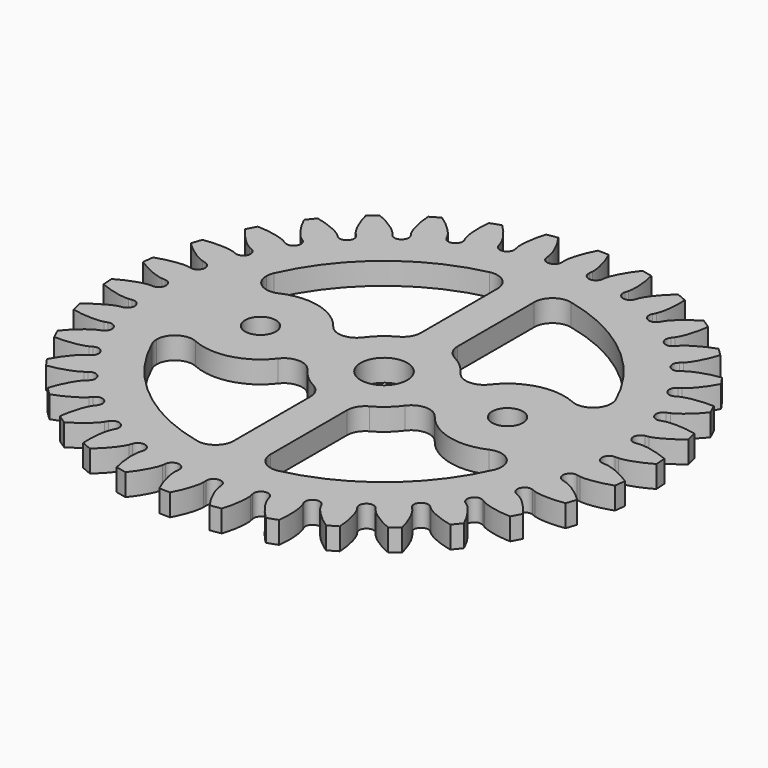
from build123d import *

# Parameters (mm, degrees)
F5_DEPTH       = 6
F7_DEPTH       = 6
F4_R           = 36
F8_DEPTH       = 3
F9_COUNT       = 34
F12_DEPTH      = 25
F13_DEPTH      = 5
F14_COUNT      = 4
F15_R          = 7.75
F16_DEPTH      = 3
F16_DEPTH_BACK = 2
F17_R          = 2.1
F18_DEPTH      = 3
F18_DEPTH_BACK = 2
F19_COUNT      = 2
F22_DEPTH      = 5
F26_R          = 2.5
F26_2_R        = 2.5
F26_3_R        = 2.5
F26_4_R        = 2.5


with BuildPart() as f5:
    # F3 (on Top) → F5 (new body)
    with BuildSketch(Plane.XY):
        with BuildLine():
            ThreePointArc((35.8090256668, -3.7031987247), (35.9522247156, -1.8540598689), (36, 0))
            ThreePointArc((36, 0), (35.9926208745, 0.7288638979), (35.9704865232, 1.457428997))
            add(Edge.make_bspline(
                [(31.9495491067, 0), (31.9970012111, 0.0017255586), (31.9738138828, 5.04126e-05), (32.1620401358, 0.0136486354), (32.3775345426, 0.0450753445), (32.710489313, 0.1083121345), (33.1238742455, 0.2125592928), (33.619815711, 0.3647628469), (34.2154709612, 0.5882773511), (34.8000075318, 0.833318637), (35.7329118544, 1.3133483205), (35.6079145642, 1.2490304604), (35.9704865232, 1.457428997)],
                knots=[0, 0, 0, 0, 0.0334555048, 0.0914010754, 0.1662083757, 0.2547215312, 0.3550859991, 0.4660430838, 0.5866661461, 0.7162360958, 0.8541738379, 0.9697759059, 0.9697759059, 0.9697759059, 0.9697759059], degree=3))
            Line((31.9495491067, 0), (31.5, 0))
            ThreePointArc((31.5, 0), (31.4845939501, -0.9850603024), (31.4383908699, -1.9691570563))
            Line((31.4383908699, -1.9691570563), (31.8870607281, -1.9972596847))
            add(Edge.make_bspline(
                [(31.8870607281, -1.9972596847), (31.9343121537, -2.0019482381), (31.9112748946, -1.9988268608), (32.0982829414, -2.0241650607), (32.3113912991, -2.0690014892), (32.6397417449, -2.1529285735), (33.0458013659, -2.2828137407), (33.5312581576, -2.4657223585), (34.1117758533, -2.7260358534), (34.6798509139, -3.0071389657), (35.5809225614, -3.5445483609), (35.460190444, -3.4725423507), (35.8090256668, -3.7031987247)],
                knots=[0, 0, 0, 0, 0.0334555048, 0.0914010754, 0.1662083757, 0.2547215312, 0.3550859991, 0.4660430838, 0.5866661461, 0.7162360958, 0.8541738379, 0.9697759059, 0.9697759059, 0.9697759059, 0.9697759059], degree=3))
        make_face()
    extrude(amount=F5_DEPTH)

    # F6 (on face) → F7 (join)
    with BuildSketch(Plane(origin=(0, 0, 0), x_dir=(1, 0, 0), z_dir=(0, 0, -1))):
        with BuildLine():
            ThreePointArc((31.5, 0), (31.4845939501, 0.9850603024), (31.4383908699, 1.9691570563))
            ThreePointArc((31.4383908699, 1.9691570563), (30.4998950152, 0.9542519701), (31.5, 0))
        make_face()
    extrude(amount=-F7_DEPTH)


with BuildPart() as f8:
    # F4 (on Top) → F8 (new body)
    with BuildSketch(Plane.XY):
        Circle(F4_R)
    extrude(amount=F8_DEPTH)


with BuildPart() as f9_1:
    # F9: instance of F5
    add(f5.part.rotate(Axis((0, 0, 3), (0, 0, 1)), 1 * 360 / F9_COUNT))


with BuildPart() as f9_2:
    # F9: instance of F5
    add(f5.part.rotate(Axis((0, 0, 3), (0, 0, 1)), 2 * 360 / F9_COUNT))


with BuildPart() as f9_3:
    # F9: instance of F5
    add(f5.part.rotate(Axis((0, 0, 3), (0, 0, 1)), 3 * 360 / F9_COUNT))


with BuildPart() as f9_4:
    # F9: instance of F5
    add(f5.part.rotate(Axis((0, 0, 3), (0, 0, 1)), 4 * 360 / F9_COUNT))


with BuildPart() as f9_5:
    # F9: instance of F5
    add(f5.part.rotate(Axis((0, 0, 3), (0, 0, 1)), 5 * 360 / F9_COUNT))


with BuildPart() as f9_6:
    # F9: instance of F5
    add(f5.part.rotate(Axis((0, 0, 3), (0, 0, 1)), 6 * 360 / F9_COUNT))


with BuildPart() as f9_7:
    # F9: instance of F5
    add(f5.part.rotate(Axis((0, 0, 3), (0, 0, 1)), 7 * 360 / F9_COUNT))


with BuildPart() as f9_8:
    # F9: instance of F5
    add(f5.part.rotate(Axis((0, 0, 3), (0, 0, 1)), 8 * 360 / F9_COUNT))


with BuildPart() as f9_9:
    # F9: instance of F5
    add(f5.part.rotate(Axis((0, 0, 3), (0, 0, 1)), 9 * 360 / F9_COUNT))


with BuildPart() as f9_10:
    # F9: instance of F5
    add(f5.part.rotate(Axis((0, 0, 3), (0, 0, 1)), 10 * 360 / F9_COUNT))


with BuildPart() as f9_11:
    # F9: instance of F5
    add(f5.part.rotate(Axis((0, 0, 3), (0, 0, 1)), 11 * 360 / F9_COUNT))


with BuildPart() as f9_12:
    # F9: instance of F5
    add(f5.part.rotate(Axis((0, 0, 3), (0, 0, 1)), 12 * 360 / F9_COUNT))


with BuildPart() as f9_13:
    # F9: instance of F5
    add(f5.part.rotate(Axis((0, 0, 3), (0, 0, 1)), 13 * 360 / F9_COUNT))


with BuildPart() as f9_14:
    # F9: instance of F5
    add(f5.part.rotate(Axis((0, 0, 3), (0, 0, 1)), 14 * 360 / F9_COUNT))


with BuildPart() as f9_15:
    # F9: instance of F5
    add(f5.part.rotate(Axis((0, 0, 3), (0, 0, 1)), 15 * 360 / F9_COUNT))


with BuildPart() as f9_16:
    # F9: instance of F5
    add(f5.part.rotate(Axis((0, 0, 3), (0, 0, 1)), 16 * 360 / F9_COUNT))


with BuildPart() as f9_17:
    # F9: instance of F5
    add(f5.part.rotate(Axis((0, 0, 3), (0, 0, 1)), 17 * 360 / F9_COUNT))


with BuildPart() as f9_18:
    # F9: instance of F5
    add(f5.part.rotate(Axis((0, 0, 3), (0, 0, 1)), 18 * 360 / F9_COUNT))


with BuildPart() as f9_19:
    # F9: instance of F5
    add(f5.part.rotate(Axis((0, 0, 3), (0, 0, 1)), 19 * 360 / F9_COUNT))


with BuildPart() as f9_20:
    # F9: instance of F5
    add(f5.part.rotate(Axis((0, 0, 3), (0, 0, 1)), 20 * 360 / F9_COUNT))


with BuildPart() as f9_21:
    # F9: instance of F5
    add(f5.part.rotate(Axis((0, 0, 3), (0, 0, 1)), 21 * 360 / F9_COUNT))


with BuildPart() as f9_22:
    # F9: instance of F5
    add(f5.part.rotate(Axis((0, 0, 3), (0, 0, 1)), 22 * 360 / F9_COUNT))


with BuildPart() as f9_23:
    # F9: instance of F5
    add(f5.part.rotate(Axis((0, 0, 3), (0, 0, 1)), 23 * 360 / F9_COUNT))


with BuildPart() as f9_24:
    # F9: instance of F5
    add(f5.part.rotate(Axis((0, 0, 3), (0, 0, 1)), 24 * 360 / F9_COUNT))


with BuildPart() as f9_25:
    # F9: instance of F5
    add(f5.part.rotate(Axis((0, 0, 3), (0, 0, 1)), 25 * 360 / F9_COUNT))


with BuildPart() as f9_26:
    # F9: instance of F5
    add(f5.part.rotate(Axis((0, 0, 3), (0, 0, 1)), 26 * 360 / F9_COUNT))


with BuildPart() as f9_27:
    # F9: instance of F5
    add(f5.part.rotate(Axis((0, 0, 3), (0, 0, 1)), 27 * 360 / F9_COUNT))


with BuildPart() as f9_28:
    # F9: instance of F5
    add(f5.part.rotate(Axis((0, 0, 3), (0, 0, 1)), 28 * 360 / F9_COUNT))


with BuildPart() as f9_29:
    # F9: instance of F5
    add(f5.part.rotate(Axis((0, 0, 3), (0, 0, 1)), 29 * 360 / F9_COUNT))


with BuildPart() as f9_30:
    # F9: instance of F5
    add(f5.part.rotate(Axis((0, 0, 3), (0, 0, 1)), 30 * 360 / F9_COUNT))


with BuildPart() as f9_31:
    # F9: instance of F5
    add(f5.part.rotate(Axis((0, 0, 3), (0, 0, 1)), 31 * 360 / F9_COUNT))


with BuildPart() as f9_32:
    # F9: instance of F5
    add(f5.part.rotate(Axis((0, 0, 3), (0, 0, 1)), 32 * 360 / F9_COUNT))


with BuildPart() as f9_33:
    # F9: instance of F5
    add(f5.part.rotate(Axis((0, 0, 3), (0, 0, 1)), 33 * 360 / F9_COUNT))


with BuildPart() as f8_1:
    add(f8.part)

    # F10: cut F9_5, F9_6, F9_7, F9_8, F9_9, F9_10, F9_11, F9_12, F9_13, F9_14, F9_15, F9_16, F9_17, F9_18, F9_19, F9_20, F9_21, F9_22, F9_23, F9_24, F9_25, F9_26, F9_27, F9_28, F9_29, F5, F9_1, F9_2, F9_3, F9_4, F9_30, F9_31, F9_32, F9_33
    add(f9_5.part, mode=Mode.SUBTRACT)
    add(f9_6.part, mode=Mode.SUBTRACT)
    add(f9_7.part, mode=Mode.SUBTRACT)
    add(f9_8.part, mode=Mode.SUBTRACT)
    add(f9_9.part, mode=Mode.SUBTRACT)
    add(f9_10.part, mode=Mode.SUBTRACT)
    add(f9_11.part, mode=Mode.SUBTRACT)
    add(f9_12.part, mode=Mode.SUBTRACT)
    add(f9_13.part, mode=Mode.SUBTRACT)
    add(f9_14.part, mode=Mode.SUBTRACT)
    add(f9_15.part, mode=Mode.SUBTRACT)
    add(f9_16.part, mode=Mode.SUBTRACT)
    add(f9_17.part, mode=Mode.SUBTRACT)
    add(f9_18.part, mode=Mode.SUBTRACT)
    add(f9_19.part, mode=Mode.SUBTRACT)
    add(f9_20.part, mode=Mode.SUBTRACT)
    add(f9_21.part, mode=Mode.SUBTRACT)
    add(f9_22.part, mode=Mode.SUBTRACT)
    add(f9_23.part, mode=Mode.SUBTRACT)
    add(f9_24.part, mode=Mode.SUBTRACT)
    add(f9_25.part, mode=Mode.SUBTRACT)
    add(f9_26.part, mode=Mode.SUBTRACT)
    add(f9_27.part, mode=Mode.SUBTRACT)
    add(f9_28.part, mode=Mode.SUBTRACT)
    add(f9_29.part, mode=Mode.SUBTRACT)
    add(f5.part, mode=Mode.SUBTRACT)
    add(f9_1.part, mode=Mode.SUBTRACT)
    add(f9_2.part, mode=Mode.SUBTRACT)
    add(f9_3.part, mode=Mode.SUBTRACT)
    add(f9_4.part, mode=Mode.SUBTRACT)
    add(f9_30.part, mode=Mode.SUBTRACT)
    add(f9_31.part, mode=Mode.SUBTRACT)
    add(f9_32.part, mode=Mode.SUBTRACT)
    add(f9_33.part, mode=Mode.SUBTRACT)

    # F11 (on face) → F12 (cut)
    with BuildSketch(Plane(origin=(0, 0, 0), x_dir=(1, 0, 0), z_dir=(0, 0, -1))):
        with BuildLine():
            ThreePointArc((1.9571982526, 2.5), (-2.8543588993, -1.3904173021), (3.175, 0))
            ThreePointArc((3.175, 0), (3.0015100366, 1.0351630306), (2.5, 1.9571982526))
            ThreePointArc((2.5, 1.9571982526), (2.2450640303, 2.2450640303), (1.9571982526, 2.5))
        make_face()
    extrude(amount=-F12_DEPTH, mode=Mode.SUBTRACT)


with BuildPart() as f13:
    # F11 (on face) → F13 (new body)
    with BuildSketch(Plane(origin=(0, 0, 0), x_dir=(1, 0, 0), z_dir=(0, 0, -1))):
        with BuildLine():
            Line((2.5, 25.3920460074), (2.5, 7.7833556388))
            ThreePointArc((2.5, 7.7833556388), (5.7805979362, 5.7805979362), (7.7833556388, 2.5))
            Line((7.7833556388, 2.5), (25.3920460074, 2.5))
            ThreePointArc((25.3920460074, 2.5), (18.0417016997, 18.0417016997), (2.5, 25.3920460074))
        make_face()
    extrude(amount=-F13_DEPTH)


with BuildPart() as f14_1:
    # F14: instance of F13
    add(f13.part.rotate(Axis((0, 0, 3), (0, 0, -1)), 1 * 360 / F14_COUNT))


with BuildPart() as f14_2:
    # F14: instance of F13
    add(f13.part.rotate(Axis((0, 0, 3), (0, 0, -1)), 2 * 360 / F14_COUNT))


with BuildPart() as f14_3:
    # F14: instance of F13
    add(f13.part.rotate(Axis((0, 0, 3), (0, 0, -1)), 3 * 360 / F14_COUNT))


with BuildPart() as f16:
    # F15 (on face) → F16 (new body, two sides)
    with BuildSketch(Plane.XY.offset(3)) as f16_sk:
        with Locations((16.84, 0)):
            Circle(F15_R)
    extrude(amount=-F16_DEPTH)
    extrude(f16_sk.sketch, amount=F16_DEPTH_BACK)


with BuildPart() as f18:
    # F17 (on face) → F18 (new body, two sides)
    with BuildSketch(Plane.XY.offset(3)) as f18_sk:
        with Locations((16.84, 0)):
            Circle(F17_R)
    extrude(amount=-F18_DEPTH)
    extrude(f18_sk.sketch, amount=F18_DEPTH_BACK)


with BuildPart() as f19_1:
    # F19: instance of F16
    add(f16.part.rotate(Axis((0, 0, 3), (0, 0, -1)), 1 * 360 / F19_COUNT))


with BuildPart() as f19_2:
    # F19: instance of F18
    add(f18.part.rotate(Axis((0, 0, 3), (0, 0, -1)), 1 * 360 / F19_COUNT))


with BuildPart() as f14_2_1:
    add(f14_2.part)

    # F20: cut F19_1, F16
    add(f19_1.part, mode=Mode.SUBTRACT)
    add(f16.part, mode=Mode.SUBTRACT)


with BuildPart() as f14_1_1:
    add(f14_1.part)

    # F20: cut F19_1, F16
    add(f19_1.part, mode=Mode.SUBTRACT)
    add(f16.part, mode=Mode.SUBTRACT)


with BuildPart() as f13_1:
    add(f13.part)

    # F20: cut F19_1, F16
    add(f19_1.part, mode=Mode.SUBTRACT)
    add(f16.part, mode=Mode.SUBTRACT)


with BuildPart() as f14_3_1:
    add(f14_3.part)

    # F20: cut F19_1, F16
    add(f19_1.part, mode=Mode.SUBTRACT)
    add(f16.part, mode=Mode.SUBTRACT)


with BuildPart() as f22:
    # F21 (on face) → F22 (new body)
    with BuildSketch(Plane.XY.offset(5)):
        with BuildLine():
            ThreePointArc((23.5274644976, 9.3556208282), (22.3869989538, 7.2576060374), (20.0061316477, 7.07376211))
            ThreePointArc((20.0061316477, 7.07376211), (22.5672981345, 5.2211642455), (24.1757003756, 2.5))
            Line((24.1757003756, 2.5), (25.3920460074, 2.5))
            ThreePointArc((25.3920460074, 2.5), (24.667845262, 6.5194639788), (23.3115867346, 10.371881428))
            ThreePointArc((23.3115867346, 10.371881428), (23.4728995911, 9.8750890215), (23.5274644976, 9.3556208282))
        make_face()
    extrude(amount=-F22_DEPTH)


with BuildPart() as f22b:
    # F21 (on face) → F22, piece 2 (new body)
    with BuildSketch(Plane.XY.offset(5)):
        with BuildLine():
            ThreePointArc((10.6733043708, 4.6940776535), (8.646589076, 3.7085768149), (6.6503128425, 4.7543626384))
            ThreePointArc((6.6503128425, 4.7543626384), (7.3043298244, 3.6711566048), (7.7833556388, 2.5))
            Line((7.7833556388, 2.5), (9.5042996244, 2.5))
            ThreePointArc((9.5042996244, 2.5), (10.0002508339, 3.6442188937), (10.6733043708, 4.6940776535))
        make_face()
    extrude(amount=-F22_DEPTH)


with BuildPart() as f23_1:
    # F23: instance of F22
    add(f22.part.mirror(Plane.XZ))


with BuildPart() as f23_2:
    # F23: instance of F22b
    add(f22b.part.mirror(Plane.XZ))


with BuildPart() as f24_1:
    # F24: instance of F22
    add(f22.part.mirror(Plane.YZ))


with BuildPart() as f24_2:
    # F24: instance of F22b
    add(f22b.part.mirror(Plane.YZ))


with BuildPart() as f24_3:
    # F24: instance of F23_2
    add(f23_2.part.mirror(Plane.YZ))


with BuildPart() as f24_4:
    # F24: instance of F23_1
    add(f23_1.part.mirror(Plane.YZ))


with BuildPart() as f14_2_2:
    add(f14_2_1.part)

    # F25: cut F24_2, F24_1, F24_4, F24_3, F23_2, F22b, F22, F23_1
    add(f24_2.part, mode=Mode.SUBTRACT)
    add(f24_1.part, mode=Mode.SUBTRACT)
    add(f24_4.part, mode=Mode.SUBTRACT)
    add(f24_3.part, mode=Mode.SUBTRACT)
    add(f23_2.part, mode=Mode.SUBTRACT)
    add(f22b.part, mode=Mode.SUBTRACT)
    add(f22.part, mode=Mode.SUBTRACT)
    add(f23_1.part, mode=Mode.SUBTRACT)

    # F26#2
    f26_2_edges = [f14_2_2.edges().sort_by_distance(p)[0] for p in [
        (-2.5, 7.783356, 2.5),
        (-2.5, 25.392046, 2.5),
    ]]
    fillet(f26_2_edges, radius=F26_2_R)


with BuildPart() as f14_1_2:
    add(f14_1_1.part)

    # F25: cut F24_2, F24_1, F24_4, F24_3, F23_2, F22b, F22, F23_1
    add(f24_2.part, mode=Mode.SUBTRACT)
    add(f24_1.part, mode=Mode.SUBTRACT)
    add(f24_4.part, mode=Mode.SUBTRACT)
    add(f24_3.part, mode=Mode.SUBTRACT)
    add(f23_2.part, mode=Mode.SUBTRACT)
    add(f22b.part, mode=Mode.SUBTRACT)
    add(f22.part, mode=Mode.SUBTRACT)
    add(f23_1.part, mode=Mode.SUBTRACT)

    # F26#3
    f26_3_edges = [f14_1_2.edges().sort_by_distance(p)[0] for p in [
        (-2.5, -7.783356, 2.5),
        (-2.5, -25.392046, 2.5),
    ]]
    fillet(f26_3_edges, radius=F26_3_R)


with BuildPart() as f13_2:
    add(f13_1.part)

    # F25: cut F24_2, F24_1, F24_4, F24_3, F23_2, F22b, F22, F23_1
    add(f24_2.part, mode=Mode.SUBTRACT)
    add(f24_1.part, mode=Mode.SUBTRACT)
    add(f24_4.part, mode=Mode.SUBTRACT)
    add(f24_3.part, mode=Mode.SUBTRACT)
    add(f23_2.part, mode=Mode.SUBTRACT)
    add(f22b.part, mode=Mode.SUBTRACT)
    add(f22.part, mode=Mode.SUBTRACT)
    add(f23_1.part, mode=Mode.SUBTRACT)

    # F26#4
    f26_4_edges = [f13_2.edges().sort_by_distance(p)[0] for p in [
        (2.5, -25.392046, 2.5),
        (2.5, -7.783356, 2.5),
    ]]
    fillet(f26_4_edges, radius=F26_4_R)


with BuildPart() as f14_3_2:
    add(f14_3_1.part)

    # F25: cut F24_2, F24_1, F24_4, F24_3, F23_2, F22b, F22, F23_1
    add(f24_2.part, mode=Mode.SUBTRACT)
    add(f24_1.part, mode=Mode.SUBTRACT)
    add(f24_4.part, mode=Mode.SUBTRACT)
    add(f24_3.part, mode=Mode.SUBTRACT)
    add(f23_2.part, mode=Mode.SUBTRACT)
    add(f22b.part, mode=Mode.SUBTRACT)
    add(f22.part, mode=Mode.SUBTRACT)
    add(f23_1.part, mode=Mode.SUBTRACT)

    # F26
    f26_edges = [f14_3_2.edges().sort_by_distance(p)[0] for p in [
        (2.5, 25.392046, 2.5),
        (2.5, 7.783356, 2.5),
    ]]
    fillet(f26_edges, radius=F26_R)


with BuildPart() as f8_2:
    add(f8_1.part)

    # F27: cut F14_2, F19_2, F14_3, F13, F18, F14_1
    add(f14_2_2.part, mode=Mode.SUBTRACT)
    add(f19_2.part, mode=Mode.SUBTRACT)
    add(f14_3_2.part, mode=Mode.SUBTRACT)
    add(f13_2.part, mode=Mode.SUBTRACT)
    add(f18.part, mode=Mode.SUBTRACT)
    add(f14_1_2.part, mode=Mode.SUBTRACT)


solid = f8_2.part
